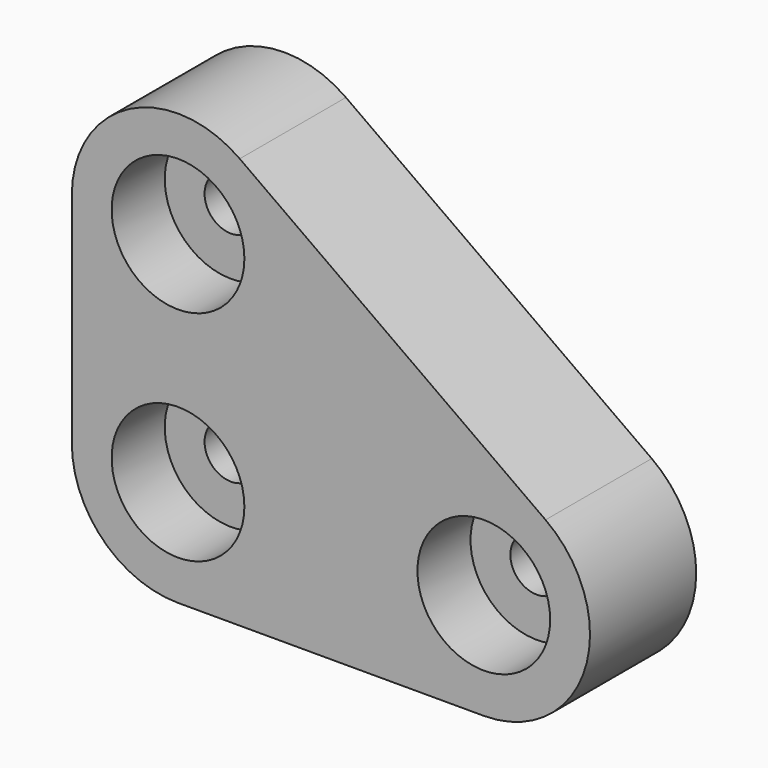
from build123d import *

# Parameters (mm, degrees)
F0_R     = 10
F1_DEPTH = 20
F0_R_2   = 4
F2_DEPTH = 10


with BuildPart() as f1:
    # F0 (on Front) → F1 (new body)
    with BuildSketch(Plane.XZ):
        with BuildLine():
            ThreePointArc((0, 16), (4.686292, 4.686292), (16, 0))
            Line((16, 0), (62.072559, 0))
            ThreePointArc((62.072559, 0), (77.309287, 11.117161), (71.37237, 29.019736))
            Line((71.37237, 29.019736), (25.299811, 61.928706))
            ThreePointArc((25.299811, 61.928706), (8.678695, 63.135653), (0, 48.908971))
            Line((0, 48.908971), (0, 16))
        make_face()
        with Locations((16, 16)):
            Circle(F0_R, mode=Mode.SUBTRACT)
        with Locations((62.072559, 16)):
            Circle(F0_R, mode=Mode.SUBTRACT)
        with Locations((16, 48.908971)):
            Circle(F0_R, mode=Mode.SUBTRACT)
    extrude(amount=F1_DEPTH)

    # F0 (on Front) → F2 (join)
    with BuildSketch(Plane.XZ):
        with Locations((16, 16)):
            Circle(F0_R)
        with Locations((16, 16)):
            Circle(F0_R_2, mode=Mode.SUBTRACT)
        with Locations((16, 48.908971)):
            Circle(F0_R)
        with Locations((16, 48.908971)):
            Circle(F0_R_2, mode=Mode.SUBTRACT)
        with Locations((62.072559, 16)):
            Circle(F0_R)
        with Locations((62.072559, 16)):
            Circle(F0_R_2, mode=Mode.SUBTRACT)
    extrude(amount=F2_DEPTH)


solid = f1.part
